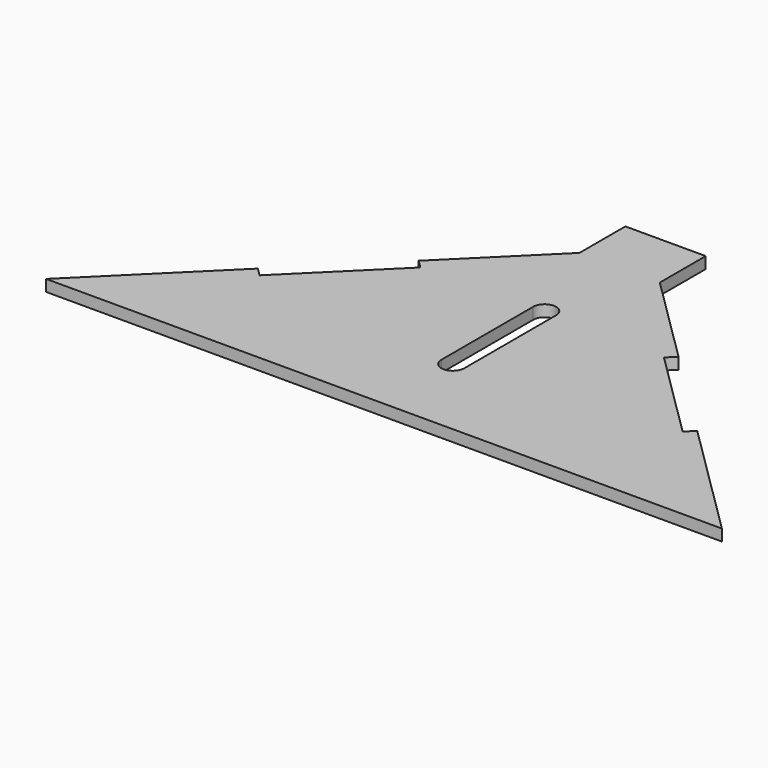
from build123d import *

# Parameters (mm, degrees)
F1_DEPTH = 2


with BuildPart() as f1:
    # F0 (on Top) → F1 (new body)
    with BuildSketch(Plane.XY):
        Polygon((-24.640209, 27.888809), (-23.23366, 26.466971), (-38.87387, 10.994937), (-40.280418, 12.416774), (-60.897057, -7.978181), (56.897057, -7.978181), (36.280418, 12.416774), (34.87387, 10.994937), (19.23366, 26.466971), (20.640209, 27.888809), (5, 43.360843), (5, 53.360843), (-9, 53.360843), (-9, 43.360843), align=None)
        with BuildLine():
            Line((0, 27.021819), (0, 7.021819))
            ThreePointArc((0, 7.021819), (-2, 5.021819), (-4, 7.021819))
            Line((-4, 7.021819), (-4, 27.021819))
            ThreePointArc((-4, 27.021819), (-2, 29.021819), (0, 27.021819))
        make_face(mode=Mode.SUBTRACT)
    extrude(amount=F1_DEPTH)


solid = f1.part
